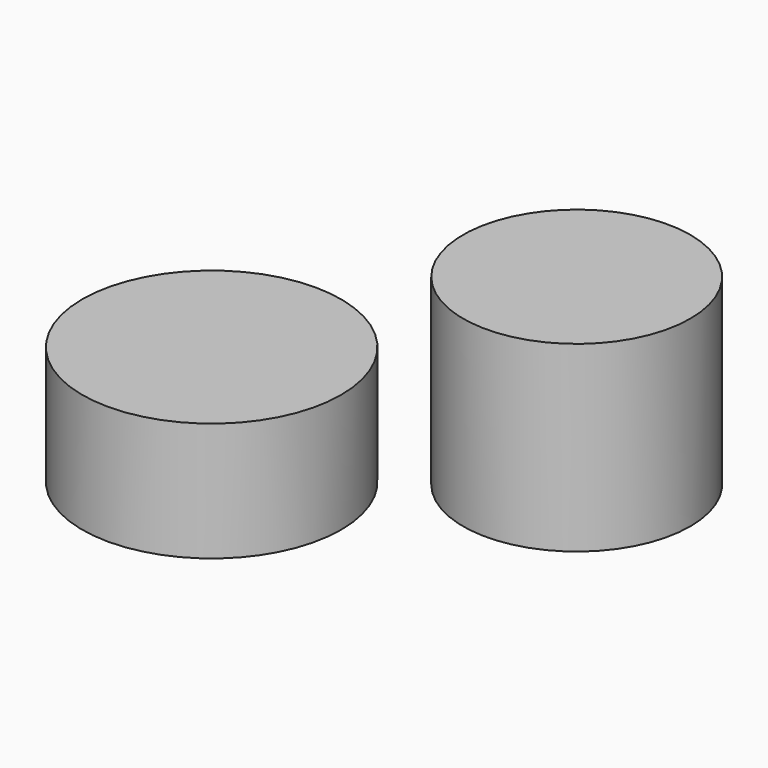
from build123d import *

# Parameters (mm, degrees)
F0_R     = 47.8338670268
F1_DEPTH = 25
F2_R     = 54.5244739927
F3_DEPTH = 25
F4_DEPTH = 25
F5_DEPTH = 25
F6_DEPTH = 52


with BuildPart() as f1:
    # F0 (on Top) → F1 (new body)
    with BuildSketch(Plane.XY):
        Circle(F0_R)
    extrude(amount=F1_DEPTH)

    # F6 (add): a face of the model
    f6_faces = [f1.faces().sort_by_distance(p)[0] for p in [
        (0, 0, 25),
    ]]
    extrude(f6_faces, amount=F6_DEPTH)


with BuildPart() as f3:
    # F2 (on Top) → F3 (new body)
    with BuildSketch(Plane.XY):
        with Locations((-124.831199646, -36.0967591405)):
            Circle(F2_R)
    extrude(amount=F3_DEPTH)

    # F4 (add): a face of the model
    f4_faces = [f3.faces().sort_by_distance(p)[0] for p in [
        (-124.831199646, -36.0967591405, 25),
    ]]
    extrude(f4_faces, amount=-F4_DEPTH)

    # F5 (add): faces of the model
    f5_faces = [f3.faces().sort_by_distance(p)[0] for p in [
        (-124.831199646, -36.0967591405, 0),
        (-124.831199646, -36.0967591405, 25),
    ]]
    extrude(f5_faces, amount=F5_DEPTH, dir=(0, 0, -1))


solid = Compound([f1.part, f3.part])
